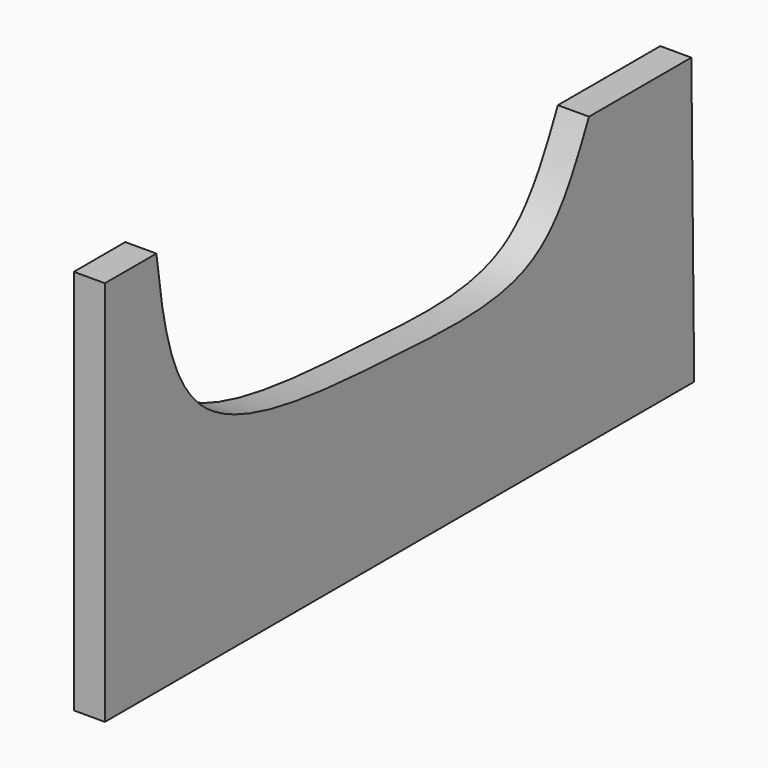
from build123d import *

# Parameters (mm, degrees)
F1_DEPTH = 6.35


with BuildPart() as f1:
    # F0 (on Right) → F1 (new body)
    with BuildSketch(Plane.YZ):
        with BuildLine():
            Line((-60.6361627579, 0), (-73.7821757793, 0))
            Line((-73.7821757793, 0), (-73.7821757793, -78.8851678371))
            Line((-73.7821757793, -78.8851678371), (76.6879767179, -78.8851678371))
            Line((76.6879767179, -78.8851678371), (75.9649127722, -20.2856957912))
            Line((75.9649127722, -20.2856957912), (49.8237013817, -20.2856957912))
            add(Edge.make_bspline(
                [(-60.6361627579, 0), (-58.9496086103, -12.6418269792), (-55.2456075907, -40.4057135173), (-0.0414123807, -42.9156722914), (38.0518770405, -45.4843726395), (46.1689611649, -28.1089977319), (49.8237013817, -20.2856957912)],
                knots=[0, 0, 0, 0, 0.2470596562, 0.542590583, 0.7940505588, 1, 1, 1, 1], degree=3))
        make_face()
    extrude(amount=F1_DEPTH)


solid = f1.part
